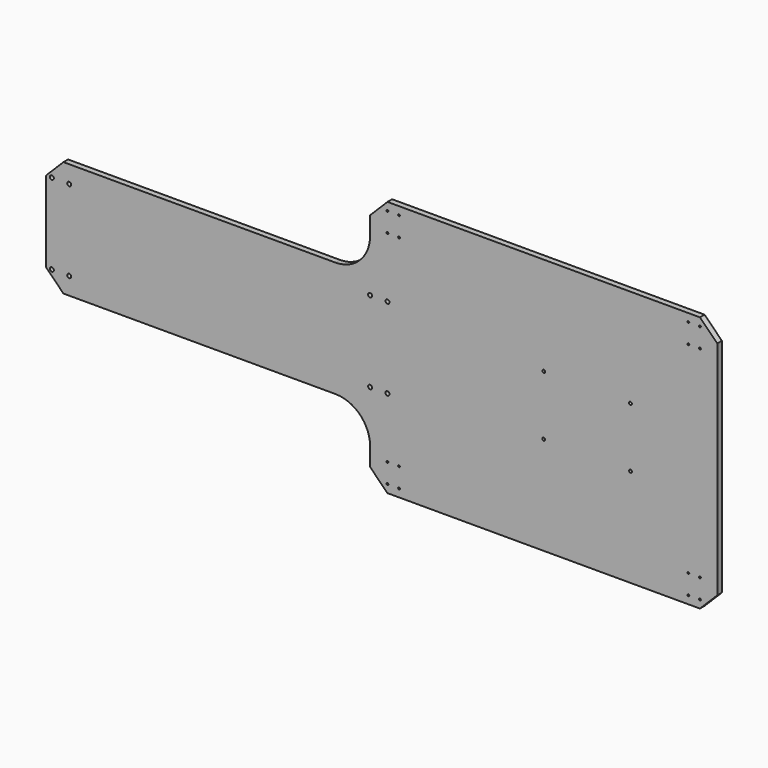
from build123d import *

# Parameters (mm, degrees)
F1_DEPTH = 12.7
F2_SIZE2 = 38.1
F2_SIZE  = 38.1
F4_D     = 6.35
F6_D     = 3.96875
F7_D     = 8.7376


with BuildPart() as f1:
    # F0 (on Front) → F1 (new body)
    with BuildSketch(Plane.XZ):
        with BuildLine():
            Line((711.2, 78.1812), (711.2, 0))
            Line((711.2, 0), (1473.2, 0))
            Line((1473.2, 0), (1473.2, 562.7624))
            Line((1473.2, 562.7624), (711.2, 562.7624))
            Line((711.2, 562.7624), (711.2, 484.5812))
            ThreePointArc((711.2, 484.5812), (688.881537, 430.699663), (635, 408.3812))
            Line((635, 408.3812), (0, 408.3812))
            Line((0, 408.3812), (0, 154.3812))
            Line((0, 154.3812), (635, 154.3812))
            ThreePointArc((635, 154.3812), (688.881537, 132.062737), (711.2, 78.1812))
        make_face()
    extrude(amount=F1_DEPTH)

    # F2
    f2_edges = [f1.edges().sort_by_distance(p)[0] for p in [
        (711.2, -6.35, 562.7624),
        (711.2, -6.35, 0),
        (1473.2, -6.35, 0),
        (1473.2, -6.35, 562.7624),
        (0, -6.35, 154.3812),
        (0, -6.35, 408.3812),
    ]]
    chamfer(f2_edges, length=F2_SIZE, length2=F2_SIZE2)

    # F4 (through all)
    with Locations(Plane.XZ.offset(12.7)):
        with Locations((1092.2, 215.9), (1092.2, 346.8624), (1282.7, 346.8624), (1282.7, 215.9)):
            Hole(F4_D / 2)

    # F6 (through all)
    with Locations(Plane.XZ.offset(12.7)):
        with Locations((749.293897, 545.3126), (749.293897, 502.4374), (774.693897, 502.4374), (774.693897, 545.3126), (749.293897, 60.325), (774.693897, 17.4498), (749.293897, 17.4498), (774.693897, 60.325), (1409.706103, 502.4374), (1435.106103, 502.4374), (1435.106103, 545.3126), (1409.706103, 545.3126), (1409.706103, 17.4498), (1435.106103, 17.4498), (1435.106103, 60.325), (1409.706103, 60.325)):
            Hole(F6_D / 2)

    # F7 (through all)
    with Locations(Plane.XZ.offset(12.7)):
        with Locations((12.7, 370.1542), (50.8, 370.1542), (12.7, 192.6082), (50.8, 192.6082), (711.2, 370.1542), (749.3, 370.1542), (711.2, 192.6082), (749.3, 192.6082)):
            Hole(F7_D / 2)


solid = f1.part
